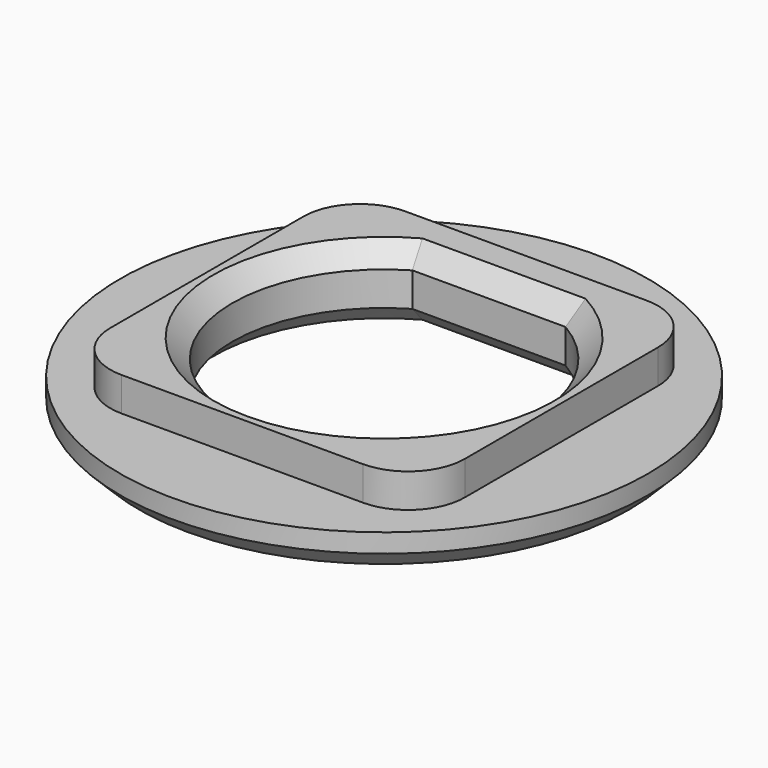
from build123d import *

# Parameters (mm, degrees)
F0_R     = 7
F1_DEPTH = 1
F2_W     = 9.4
F2_H     = 9.4
F3_DEPTH = 0.9
F4_SIZE2 = 0.5
F4_SIZE  = 0.5
F5_R     = 1.5


with BuildPart() as f1:
    # F0 (on Top) → F1 (new body)
    with BuildSketch(Plane.XY):
        Circle(F0_R)
        with BuildLine():
            ThreePointArc((2.03101, 3.475), (0, -4.025), (-2.03101, 3.475))
            Line((-2.03101, 3.475), (2.03101, 3.475))
        make_face(mode=Mode.SUBTRACT)
    extrude(amount=-F1_DEPTH)

    # F2 (on face) → F3 (join)
    with BuildSketch(Plane.XY):
        Rectangle(F2_W, F2_H)
        with BuildLine():
            Line((-2.03101, 3.475), (2.03101, 3.475))
            ThreePointArc((2.03101, 3.475), (0, -4.025), (-2.03101, 3.475))
        make_face(mode=Mode.SUBTRACT)
    extrude(amount=F3_DEPTH)

    # F4
    f4_edges = [f1.edges().sort_by_distance(p)[0] for p in [
        (0, -4.025, -1),
        (-7, 0, -1),
        (0, 3.475, -1),
        (0, -4.025, 0.9),
        (0, 3.475, 0.9),
    ]]
    chamfer(f4_edges, length=F4_SIZE, length2=F4_SIZE2)

    # F5
    f5_edges = [f1.edges().sort_by_distance(p)[0] for p in [
        (-4.7, 4.7, 0.45),
        (4.7, 4.7, 0.45),
        (4.7, -4.7, 0.45),
        (-4.7, -4.7, 0.45),
    ]]
    fillet(f5_edges, radius=F5_R)


solid = f1.part
